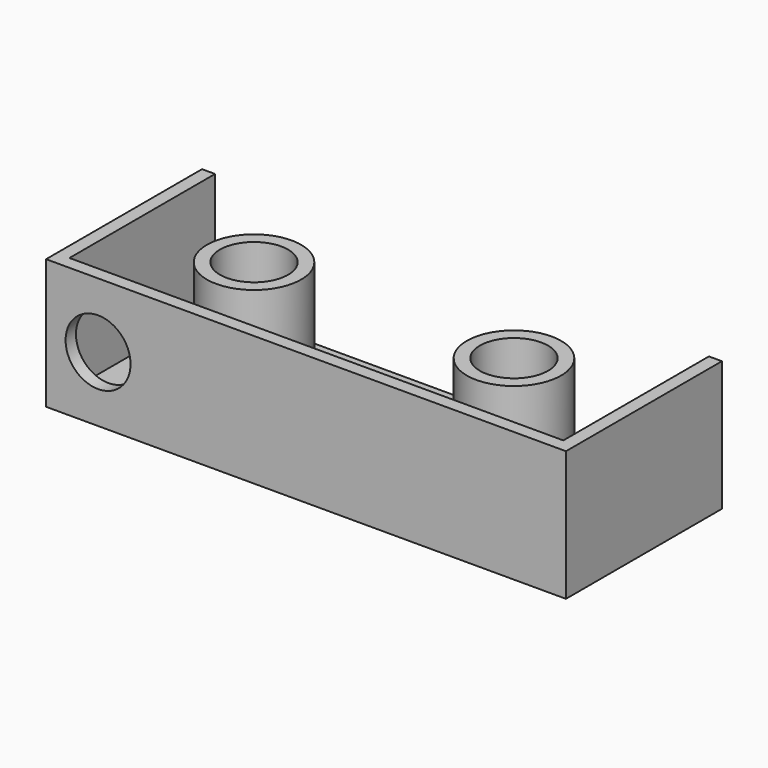
from build123d import *

# Parameters (mm, degrees)
F0_W     = 40
F0_H     = 15
F1_DEPTH = 10
F2_D     = 5.25
F3_T     = -1
F5_D     = 5
F5_DEPTH = 2
F5_TIP   = 1.5021515476


with BuildPart() as f1:
    # F0 (on Top) → F1 (new body)
    with BuildSketch(Plane.XY):
        with Locations((20, 7.5)):
            Rectangle(F0_W, F0_H)
    extrude(amount=F1_DEPTH)

    # F2 (through all)
    with Locations(Plane(origin=(0, 0, 0), x_dir=(1, 0, 0), z_dir=(0, 0, -1))):
        with Locations((10, -7.5), (30, -7.5)):
            Hole(F2_D / 2)

    # F3
    f3_openings = [f1.faces().sort_by_distance(p)[0] for p in [
        (20, 15, 5),
        (20, 7.5, 10),
    ]]
    offset(amount=F3_T, openings=f3_openings)

    # F5
    with Locations(Plane.XZ):
        with Locations((4, 5)):
            Hole(F5_D / 2, depth=F5_DEPTH)
            with Locations((0, 0, -(F5_DEPTH + F5_TIP / 2))):  # 118° drill point
                Cone(0, F5_D / 2, F5_TIP, mode=Mode.SUBTRACT)


solid = f1.part
